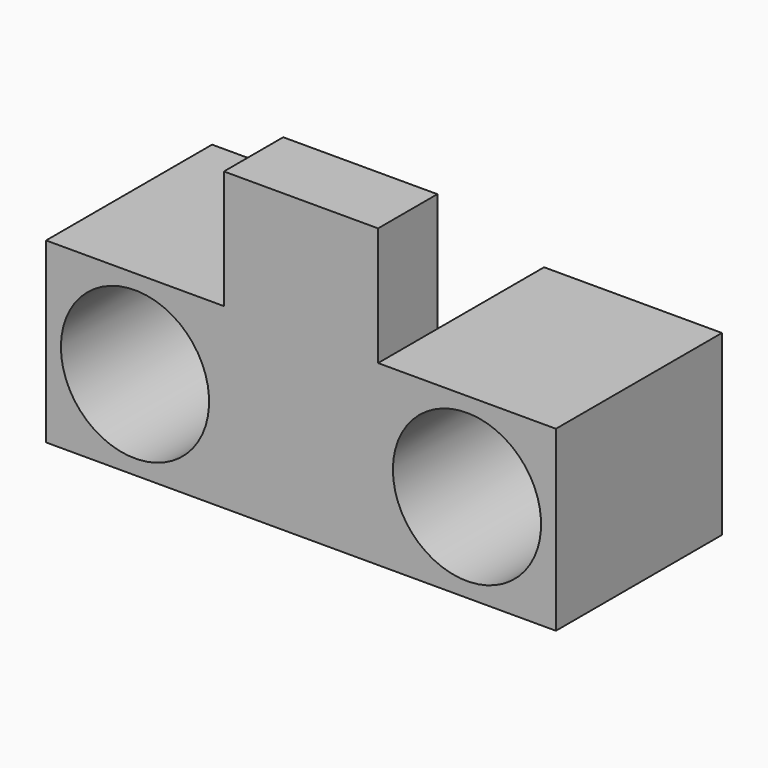
from build123d import *

# Parameters (mm, degrees)
F0_W     = 104
F0_H     = 200
F1_DEPTH = 50
F2_W     = 120
F2_H     = 120
F3_DEPTH = 140
F4_R     = 50
F5_DEPTH = 140.001
F7_DEPTH = 15


with BuildPart() as f1:
    # F0 (on Front) → F1 (new body)
    with BuildSketch(Plane.XZ):
        with Locations((-47.456343, 24.031783)):
            Rectangle(F0_W, F0_H)
    extrude(amount=F1_DEPTH)

    # F2 (on face) → F3 (join)
    with BuildSketch(Plane.XZ.offset(50)):
        with Locations((-159.456343, -15.968217)):
            Rectangle(F2_W, F2_H)
        with Locations((64.543657, -15.968217)):
            Rectangle(F2_W, F2_H)
    extrude(amount=-F3_DEPTH)

    # F4 (on face) → F5 (cut, through all)
    with BuildSketch(Plane(origin=(0, 90, 0), x_dir=(-1, 0, 0), z_dir=(0, 1, 0))):
        with Locations((-64.543657, -15.968217)):
            Circle(F4_R)
        with Locations((159.456343, -15.968217)):
            Circle(F4_R)
    extrude(amount=-F5_DEPTH, mode=Mode.SUBTRACT)

    # F6 (on face) → F7 (join)
    with BuildSketch(Plane(origin=(0, 0, -75.968217), x_dir=(1, 0, 0), z_dir=(0, 0, -1))):
        Polygon((0, 0), (-99.456343, 0), (-99.456343, -90), (-99.456343, -201.058388), (4.543657, -201.058388), (4.543657, -90), (4.543657, 0), align=None)
    extrude(amount=-F7_DEPTH)


solid = f1.part
